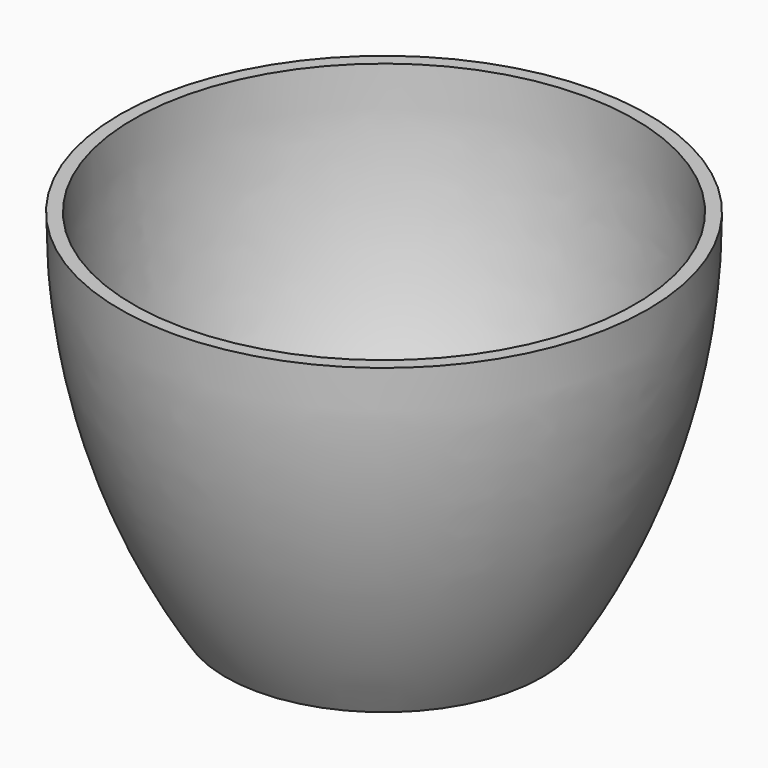
from build123d import *


with BuildPart() as part:
    # Sketch → Revolution (revolve)
    with BuildSketch(Plane.YZ):
        with BuildLine():
            Line((0, 0), (20, 0))
            Line((20, 0), (22, -2))
            Line((22, -2), (24, -2))
            ThreePointArc((24, -2), (35.91663, 23.974369), (40, 52.25864))
            Line((38, 52.25864), (40, 52.25864))
            ThreePointArc((24, 2.038459), (34.330363, 26.220136), (38, 52.25864))
            ThreePointArc((24, 2.038459), (12.009627, 2.759518), (0, 3))
            Line((0, 3), (0, 0))
        make_face()
    revolve(axis=Axis((0, 0, 0), (0, 0, 1)))


solid = part.part
